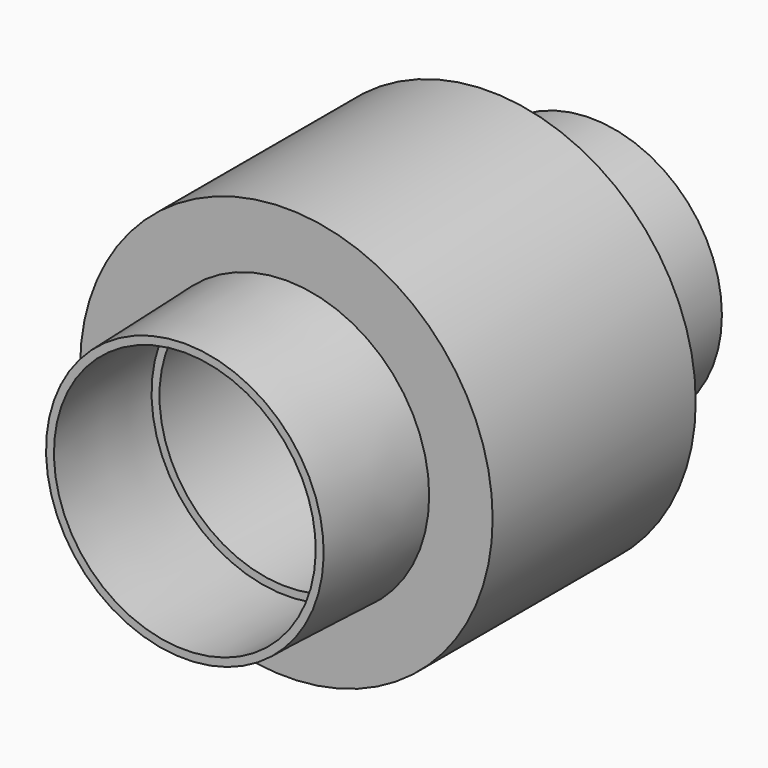
from build123d import *

# Parameters (mm, degrees)
F0_R      = 26.19375
F0_R_2    = 25.4
F1_DEPTH  = 25.4
F2_R      = 41.275
F3_DEPTH  = 50.8
F3_FACE_R = 25.4
F6_DEPTH  = 76.2


with BuildPart() as f1:
    # F0 (on Front) → F1 (new body)
    with BuildSketch(Plane.XZ):
        Circle(F0_R)
        Circle(F0_R_2, mode=Mode.SUBTRACT)
    extrude(amount=F1_DEPTH)

    # F2 (on face) → F3 (join)
    with BuildSketch(Plane.XZ.offset(25.4)):
        Circle(F2_R)
    extrude(amount=F3_DEPTH)

    # F4 (on Right) → F5 (revolve)
    with BuildSketch(Plane.YZ):
        Polygon((-76.2, 28.575), (-101.6, 27.78125), (-101.606704, 26.19375), (-76.2, 26.9875), align=None)
    revolve(axis=Axis((0, -38.1, 0), (0, -1, 0)))

    # F3_face (on face) → F6 (cut)
    with BuildSketch(Plane(origin=(0, -25.4, 0), x_dir=(1, 0, 0), z_dir=(0, 1, 0))):
        Circle(F3_FACE_R)
    extrude(amount=-F6_DEPTH, mode=Mode.SUBTRACT)


solid = f1.part
